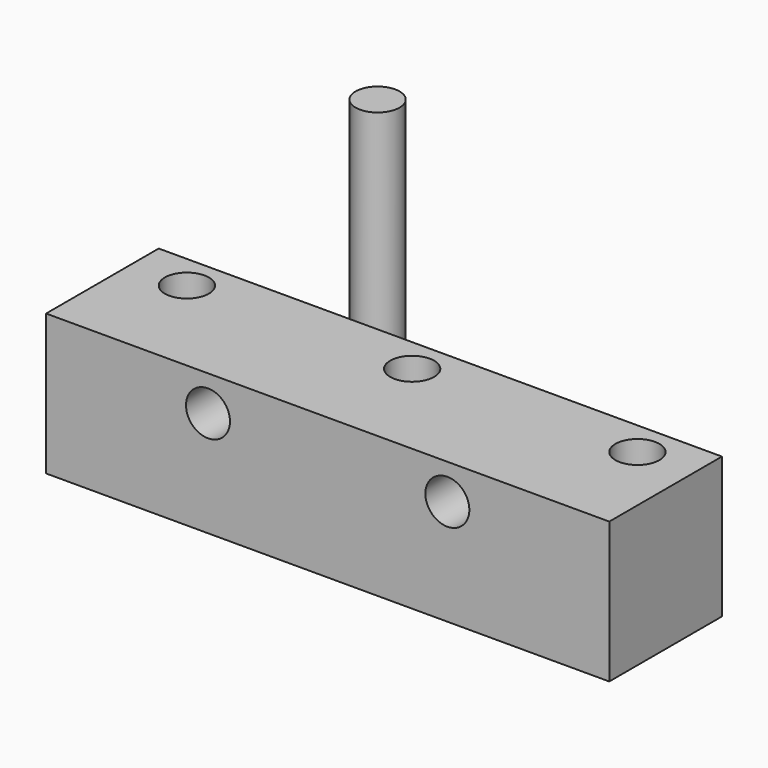
from build123d import *

# Parameters (mm, degrees)
F0_W     = 101.6
F0_H     = 25.4
F1_DEPTH = 25.4
F3_D     = 7.9375
F4_R     = 3.96875
F5_DEPTH = 38.1
F7_D     = 7.9375


with BuildPart() as f1:
    # F0 (on Top) → F1 (new body)
    with BuildSketch(Plane.XY):
        with Locations((5.525812, -0.747523)):
            Rectangle(F0_W, F0_H)
    extrude(amount=F1_DEPTH)

    # F3 (through all)
    with Locations(Plane.XY.offset(25.4)):
        with Locations((-35.114188, 5.602477), (5.525812, 5.602477), (46.165812, 5.602477)):
            Hole(F3_D / 2)

    # F7 (through all)
    with Locations(Plane(origin=(0, 11.952477, 0), x_dir=(-1, 0, 0), z_dir=(0, 1, 0))):
        with Locations((16.064188, 19.05), (-27.115812, 19.05)):
            Hole(F7_D / 2)


with BuildPart() as f5:
    # F4 (on Top) → F5 (new body)
    with BuildSketch(Plane.XY):
        with Locations((-34.354363, 47.657553)):
            Circle(F4_R)
    extrude(amount=F5_DEPTH)


solid = Compound([f1.part, f5.part])
